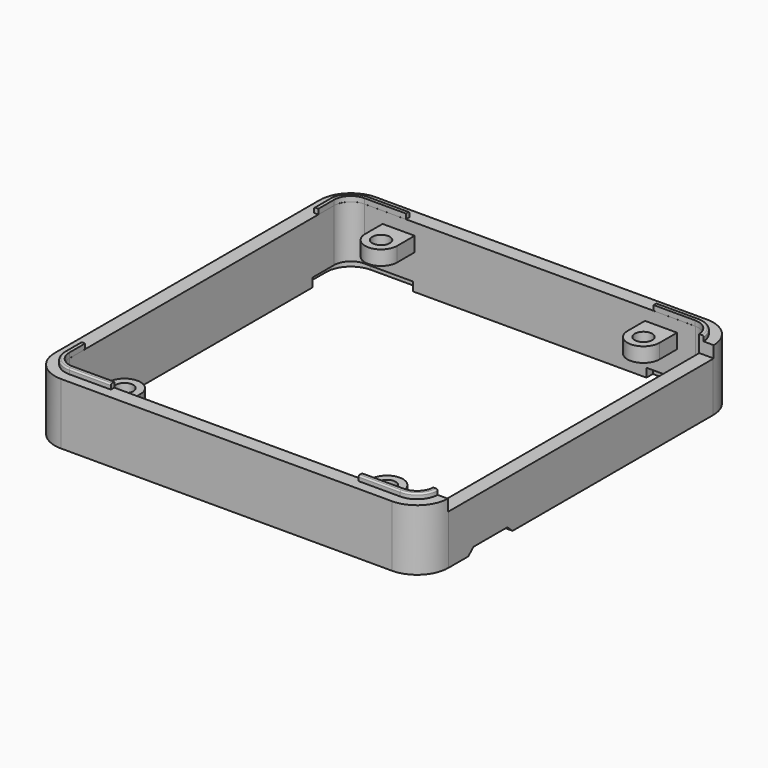
from build123d import *

# Parameters (mm, degrees)
EXTRUDE006_DEPTH                     = 2
EXTRUDE006_ONTO_SKETCH006_ROLL_ANGLE = 90
EXTRUDE006_PLACEMENT_ANGLE           = 90
SKETCH_W                             = 14.047477
SKETCH_H                             = 45.6
EXTRUDE004_DEPTH                     = 10
SKETCH002_R                          = 1.2
EXTRUDE001_DEPTH                     = 2
EXTRUDE005_DEPTH                     = 10
EXTRUDE003_DEPTH                     = 0.7
EXTRUDE003_DEPTH_BACK                = 0.2
FILLET_R                             = 0.2
CHAMFER_SIZE                         = 0.2
EXTRUDE002_DEPTH                     = 2
EXTRUDE_DEPTH                        = 1.6
EXTRUDE_DEPTH_BACK                   = 6.8


with BuildPart() as extrude006:
    # Sketch006 as drawn → Extrude006 (new, symmetric)
    with BuildSketch(Plane.XY):
        Polygon((-3.8, 0), (-2.9, 0.8), (2.9, 0.8), (3.8, 0), align=None)
    extrude(amount=EXTRUDE006_DEPTH, both=True)


with BuildPart() as extrude006_1:
    # Extrude006 onto Sketch006 roll: moved
    add(extrude006.part.rotate(Axis((0, 0, 0), (1, 0, 0)), EXTRUDE006_ONTO_SKETCH006_ROLL_ANGLE))


with BuildPart() as extrude006_2:
    # Extrude006 onto Sketch006 placement: moved
    add(extrude006_1.part)


with BuildPart() as extrude006_3:
    # Extrude006 placement: moved
    add(extrude006_2.part.moved(Location((50, 9.5, -6.8))).rotate(Axis((50, 9.5, -6.8), (0, 0, 1)), EXTRUDE006_PLACEMENT_ANGLE))


with BuildPart() as extrude004:
    # Sketch → Extrude004 (new body)
    with BuildSketch(Plane.XY):
        with Locations((51.252235, 25)):
            Rectangle(SKETCH_W, SKETCH_H)
    extrude(amount=EXTRUDE004_DEPTH)


with BuildPart() as extrude001:
    # Sketch002 → Extrude001 (new body)
    with BuildSketch(Plane.XY):
        with BuildLine():
            Line((4.8, 47), (4.8, 51))
            Line((4.8, 51), (9.2, 51))
            Line((9.2, 51), (9.2, 47.000001))
            ThreePointArc((4.8, 47), (7, 44.8), (9.2, 47.000001))
        make_face()
        with Locations((7, 47)):
            Circle(SKETCH002_R, mode=Mode.SUBTRACT)
        with BuildLine():
            ThreePointArc((9.2, 3), (7, 5.2), (4.8, 3))
            Line((4.8, 3), (4.8, -1))
            Line((4.8, -1), (9.2, -1))
            Line((9.2, -1), (9.2, 3))
        make_face()
        with Locations((7, 3)):
            Circle(SKETCH002_R, mode=Mode.SUBTRACT)
        with BuildLine():
            Line((40.8, 47), (40.8, 51))
            Line((40.8, 51), (45.2, 51))
            Line((45.2, 51), (45.2, 46.999987))
            ThreePointArc((40.8, 47), (42.999993, 44.8), (45.2, 46.999987))
        make_face()
        with Locations((43, 47)):
            Circle(SKETCH002_R, mode=Mode.SUBTRACT)
        with BuildLine():
            ThreePointArc((45.2, 3), (43, 5.2), (40.8, 3))
            Line((40.8, 3), (40.8, -1))
            Line((40.8, -1), (45.2, -1))
            Line((45.2, -1), (45.2, 3))
        make_face()
        with Locations((43, 3)):
            Circle(SKETCH002_R, mode=Mode.SUBTRACT)
    extrude(amount=-EXTRUDE001_DEPTH)


with BuildPart() as extrude005:
    # Sketch005 → Extrude005 (new body)
    with BuildSketch(Plane.XY):
        Polygon((8, 53), (8, 45), (-3, 45), (-3, 5), (8, 5), (8, -3), (42, -3), (42, 5), (53, 5), (53, 45), (42, 45), (42, 53), align=None)
    extrude(amount=EXTRUDE005_DEPTH)


with BuildPart() as cut003:
    # Sketch004 → Extrude003 (new body, two sides)
    with BuildSketch(Plane.XY) as extrude003_sk:
        with BuildLine():
            Line((2.3, 50.6), (47.7, 50.6))
            ThreePointArc((50.6, 47.7), (49.75061, 49.75061), (47.7, 50.6))
            Line((50.6, 47.7), (50.6, 2.3))
            ThreePointArc((47.7, -0.6), (49.75061, 0.24939), (50.6, 2.3))
            Line((47.7, -0.6), (2.3, -0.6))
            ThreePointArc((-0.6, 2.3), (0.24939, 0.24939), (2.3, -0.6))
            Line((-0.6, 2.3), (-0.6, 47.7))
            ThreePointArc((2.3, 50.6), (0.24939, 49.75061), (-0.6, 47.7))
        make_face()
        with BuildLine():
            Line((2.3, 50), (47.7, 50))
            ThreePointArc((50, 47.7), (49.326346, 49.326346), (47.7, 50))
            Line((50, 47.7), (50, 2.3))
            ThreePointArc((47.7, 0), (49.326346, 0.673654), (50, 2.3))
            Line((47.7, 0), (2.3, 0))
            ThreePointArc((0, 2.3), (0.673654, 0.673654), (2.3, 0))
            Line((0, 2.3), (0, 47.7))
            ThreePointArc((2.3, 50), (0.673654, 49.326346), (0, 47.7))
        make_face(mode=Mode.SUBTRACT)
    extrude(amount=EXTRUDE003_DEPTH)
    extrude(extrude003_sk.sketch, amount=-EXTRUDE003_DEPTH_BACK)


with BuildPart() as cut003_1:
    # Extrude003 placement: moved
    add(cut003.part.moved(Location((0, 0, 1.6))))

    # Fillet
    fillet_edges = [cut003_1.edges().sort_by_distance(p)[0] for p in [
        (-0.6, 25, 2.3),
        (0.24939, 49.75061, 2.3),
        (25, 50.6, 2.3),
        (49.75061, 49.75061, 2.3),
        (50.6, 25, 2.3),
        (49.75061, 0.24939, 2.3),
        (25, -0.6, 2.3),
        (0.24939, 0.24939, 2.3),
    ]]
    fillet(fillet_edges, radius=FILLET_R)

    # Chamfer
    chamfer_edges = [cut003_1.edges().sort_by_distance(p)[0] for p in [
        (0, 25, 1.4),
        (0.673654, 49.326346, 1.4),
        (25, 50, 1.4),
        (49.326346, 49.326346, 1.4),
        (50, 25, 1.4),
        (49.326346, 0.673654, 1.4),
        (25, 0, 1.4),
        (0.673654, 0.673654, 1.4),
    ]]
    chamfer(chamfer_edges, length=CHAMFER_SIZE)

    # Cut003: cut Extrude005
    add(extrude005.part, mode=Mode.SUBTRACT)


with BuildPart() as extrude002:
    # Sketch003 → Extrude002 (new body)
    with BuildSketch(Plane.XY):
        with BuildLine():
            Line((2.3, 51.1), (9, 51.1))
            Line((9, 44), (9, 51.1))
            Line((-1.1, 44), (9, 44))
            Line((-1.1, 44), (-1.1, 47.654452))
            ThreePointArc((2.3, 51.1), (-0.12032, 50.088024), (-1.1, 47.654452))
        make_face()
        with BuildLine():
            Line((51.1, 47.699699), (51.1, 44))
            Line((41, 44), (51.1, 44))
            Line((41, 51.1), (41, 44))
            Line((41, 51.1), (47.698586, 51.1))
            ThreePointArc((51.1, 47.699699), (50.103681, 50.104468), (47.698586, 51.1))
        make_face()
        with BuildLine():
            Line((47.6997, -1.1), (41, -1.1))
            Line((41, -1.1), (41, 6))
            Line((41, 6), (51.1, 6))
            Line((51.1, 6), (51.1, 2.297304))
            ThreePointArc((47.6997, -1.1), (50.103016, -0.105134), (51.1, 2.297304))
        make_face()
        with BuildLine():
            Line((-1.1, 2.300296), (-1.1, 6))
            Line((-1.1, 6), (9, 6))
            Line((9, 6), (9, -1.1))
            Line((9, -1.1), (2.294563, -1.1))
            ThreePointArc((-1.1, 2.300296), (-0.106103, -0.10205), (2.294563, -1.1))
        make_face()
    extrude(amount=-EXTRUDE002_DEPTH)


with BuildPart() as extrude002_1:
    # Extrude002 placement: moved
    add(extrude002.part.moved(Location((0, 0, -5.6))))


with BuildPart() as cut004:
    # Sketch001 → Extrude (new body, two sides)
    with BuildSketch(Plane.XY) as extrude_sk:
        with BuildLine():
            Line((2.3, 52), (47.7, 52))
            ThreePointArc((52, 47.7), (50.740559, 50.740559), (47.7, 52))
            Line((52, 47.7), (52, 2.3))
            ThreePointArc((47.7, -2), (50.740559, -0.740559), (52, 2.3))
            Line((47.7, -2), (2.3, -2))
            ThreePointArc((-2, 2.3), (-0.740559, -0.740559), (2.3, -2))
            Line((-2, 2.3), (-2, 47.7))
            ThreePointArc((2.3, 52), (-0.740559, 50.740559), (-2, 47.7))
        make_face()
        with BuildLine():
            Line((2.3, 50.01), (47.7, 50.01))
            ThreePointArc((50.01, 47.7), (49.333417, 49.333417), (47.7, 50.01))
            Line((50.01, 47.7), (50.01, 2.3))
            ThreePointArc((47.7, -0.01), (49.333417, 0.666583), (50.01, 2.3))
            Line((47.7, -0.01), (2.3, -0.01))
            ThreePointArc((-0.01, 2.3), (0.666583, 0.666583), (2.3, -0.01))
            Line((-0.01, 2.3), (-0.01, 47.7))
            ThreePointArc((2.3, 50.01), (0.666583, 49.333417), (-0.01, 47.7))
        make_face(mode=Mode.SUBTRACT)
    extrude(amount=EXTRUDE_DEPTH)
    extrude(extrude_sk.sketch, amount=-EXTRUDE_DEPTH_BACK)

    # Cut002: cut Extrude002
    add(extrude002_1.part, mode=Mode.SUBTRACT)

    # Fusion001: union Cut003
    add(cut003_1.part)

    # Fusion002: union Extrude001
    add(extrude001.part)

    # Cut: cut Extrude004
    add(extrude004.part, mode=Mode.SUBTRACT)

    # Cut004: cut Extrude006
    add(extrude006_3.part, mode=Mode.SUBTRACT)


solid = cut004.part
